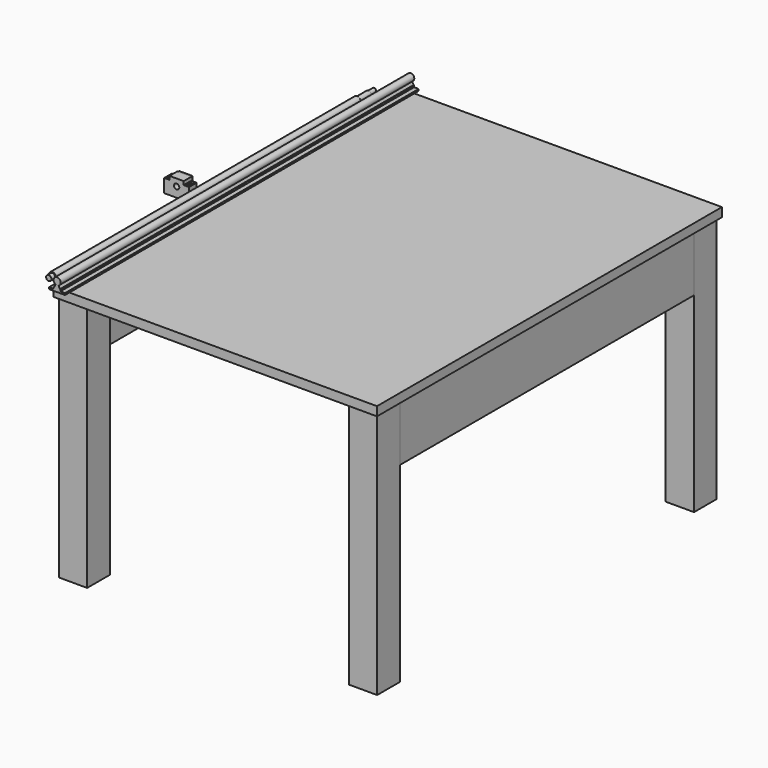
from build123d import *

# Parameters (mm, degrees)
F0_W            = 80
F0_H            = 80
F1_DEPTH        = 700
F2_W            = 40
F2_H            = 160
F3_DEPTH        = 1040
F0_W_2          = 914.4
F0_H_2          = 1219.2
F4_DEPTH        = 25.4
F6_DEPTH        = 625
F9_R            = 7.5
F10_DEPTH       = 27
F12_D           = 6.6
F12_CBORE_D     = 11
F12_CBORE_DEPTH = 6.5
F13_W           = 38
F13_H           = 38
F13_R           = 7.5
F14_DEPTH       = 6


with BuildPart() as f1:
    # F0 (on Top) → F1 (new body)
    with BuildSketch(Plane.XY):
        with Locations((-410, 560)):
            Rectangle(F0_W, F0_H)
    extrude(amount=-F1_DEPTH)


with BuildPart() as f1b:
    # F0 (on Top) → F1, piece 2 (new body)
    with BuildSketch(Plane.XY):
        with Locations((410, 560)):
            Rectangle(F0_W, F0_H)
    extrude(amount=-F1_DEPTH)


with BuildPart() as f1c:
    # F0 (on Top) → F1, piece 3 (new body)
    with BuildSketch(Plane.XY):
        with Locations((410, -560)):
            Rectangle(F0_W, F0_H)
    extrude(amount=-F1_DEPTH)


with BuildPart() as f1d:
    # F0 (on Top) → F1, piece 4 (new body)
    with BuildSketch(Plane.XY):
        with Locations((-410, -560)):
            Rectangle(F0_W, F0_H)
    extrude(amount=-F1_DEPTH)


with BuildPart() as f3:
    # F2 (on face) → F3 (new body, through all)
    with BuildSketch(Plane.XZ.offset(-520)):
        with Locations((-430, -80)):
            Rectangle(F2_W, F2_H)
    extrude(amount=F3_DEPTH)


with BuildPart() as f3b:
    # F2 (on face) → F3, piece 2 (new body, through all)
    with BuildSketch(Plane.XZ.offset(-520)):
        with Locations((430, -80)):
            Rectangle(F2_W, F2_H)
    extrude(amount=F3_DEPTH)


with BuildPart() as f4:
    # F0 (on Top) → F4 (new body)
    with BuildSketch(Plane.XY):
        Rectangle(F0_W_2, F0_H_2)
        with Locations((-410, -560)):
            Rectangle(F0_W, F0_H, mode=Mode.SUBTRACT)
        with Locations((410, -560)):
            Rectangle(F0_W, F0_H, mode=Mode.SUBTRACT)
        with Locations((-410, 560)):
            Rectangle(F0_W, F0_H, mode=Mode.SUBTRACT)
        with Locations((410, 560)):
            Rectangle(F0_W, F0_H, mode=Mode.SUBTRACT)
        with Locations((-410, 560)):
            Rectangle(F0_W, F0_H)
        with Locations((410, 560)):
            Rectangle(F0_W, F0_H)
        with Locations((410, -560)):
            Rectangle(F0_W, F0_H)
        with Locations((-410, -560)):
            Rectangle(F0_W, F0_H)
    extrude(amount=F4_DEPTH)


with BuildPart() as f6:
    # F5 (on Front) → F6 (new body, symmetric)
    with BuildSketch(Plane.XZ):
        with BuildLine():
            Line((-457.5, 30.4), (-457.5, 25.4))
            Line((-457.5, 25.4), (-412.5, 25.4))
            Line((-412.5, 25.4), (-412.5, 30.4))
            Line((-412.5, 30.4), (-425.5, 30.4))
            Line((-425.5, 30.4), (-425.5, 35.4))
            Line((-425.5, 35.4), (-427.0727698114, 35.4))
            Line((-427.0727698114, 35.4), (-430.7738173826, 43.3369221296))
            ThreePointArc((-430.7738173826, 43.3369221296), (-435, 62.4), (-439.2261826174, 43.3369221296))
            Line((-439.2261826174, 43.3369221296), (-442.9272301886, 35.4))
            Line((-442.9272301886, 35.4), (-444.5, 35.4))
            Line((-444.5, 35.4), (-444.5, 30.4))
            Line((-444.5, 30.4), (-457.5, 30.4))
        make_face()
    extrude(amount=F6_DEPTH, both=True)


with BuildPart() as f8:
    # F7 (on Top) → F8 (revolve)
    with BuildSketch(Plane.XY):
        Polygon((-515.9045877457, 604.0378603052), (-521.9045877457, 604.0378603052), (-521.9045877457, -545.9621396948), (-514.4045877457, -545.9621396948), (-514.4045877457, -532.9621396948), (-511.9045877457, -532.9621396948), (-511.9045877457, 544.0378603052), (-514.4045877457, 544.0378603052), (-514.4045877457, 584.0378603052), (-515.9045877457, 584.0378603052), align=None)
    revolve(axis=Axis((-521.9045877457, 620.2453569924, 0), (0, -1, 0)))


with BuildPart() as f10:
    # F9 (on Front) → F10 (new body)
    with BuildSketch(Plane.XZ):
        Polygon((-540.429469347, -28.5061191786), (-540.429469347, 9.4938808214), (-555.429469347, 9.4938808214), (-555.429469347, 19.4938808214), (-595.429469347, 19.4938808214), (-595.429469347, 9.4938808214), (-610.429469347, 9.4938808214), (-610.429469347, -28.5061191786), align=None)
        with Locations((-575.429469347, -0.5061191786)):
            Circle(F9_R, mode=Mode.SUBTRACT)
    extrude(amount=F10_DEPTH)

    # F12 (through all)
    with Locations(Plane.XY.offset(9.4938808214)):
        with Locations((-602.429469347, -6), (-602.429469347, -21), (-548.429469347, -6), (-548.429469347, -21)):
            CounterBoreHole(F12_D / 2, F12_CBORE_D / 2, F12_CBORE_DEPTH)

    # F13 (on face) → F14 (join)
    with BuildSketch(Plane(origin=(0, 0, 0), x_dir=(-1, 0, 0), z_dir=(0, 1, 0))):
        with Locations((575.429469347, -0.5061191786)):
            Rectangle(F13_W, F13_H)
        with Locations((575.429469347, -0.5061191786)):
            Circle(F13_R, mode=Mode.SUBTRACT)
    extrude(amount=F14_DEPTH)


solid = Compound([f1.part, f1b.part, f1c.part, f1d.part, f3.part, f3b.part, f4.part, f6.part, f8.part, f10.part])
